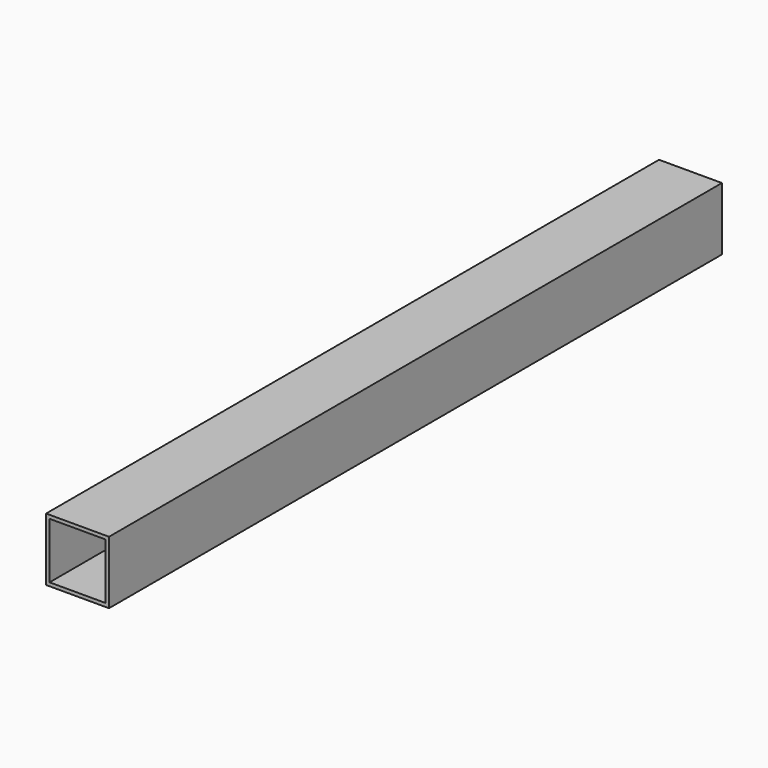
from build123d import *

# Parameters (mm, degrees)
F0_W     = 28.75
F0_H     = 28.75
F1_DEPTH = 350
F2_T     = -1.6


with BuildPart() as f1:
    # F0 (on Front) → F1 (new body)
    with BuildSketch(Plane.XZ):
        with Locations((-2.053572, 0)):
            Rectangle(F0_W, F0_H)
    extrude(amount=F1_DEPTH)

    # F2
    f2_openings = [f1.faces().sort_by_distance(p)[0] for p in [
        (-2.053572, -350, 0),
        (-2.053572, 0, 0),
    ]]
    offset(amount=F2_T, openings=f2_openings)


solid = f1.part
